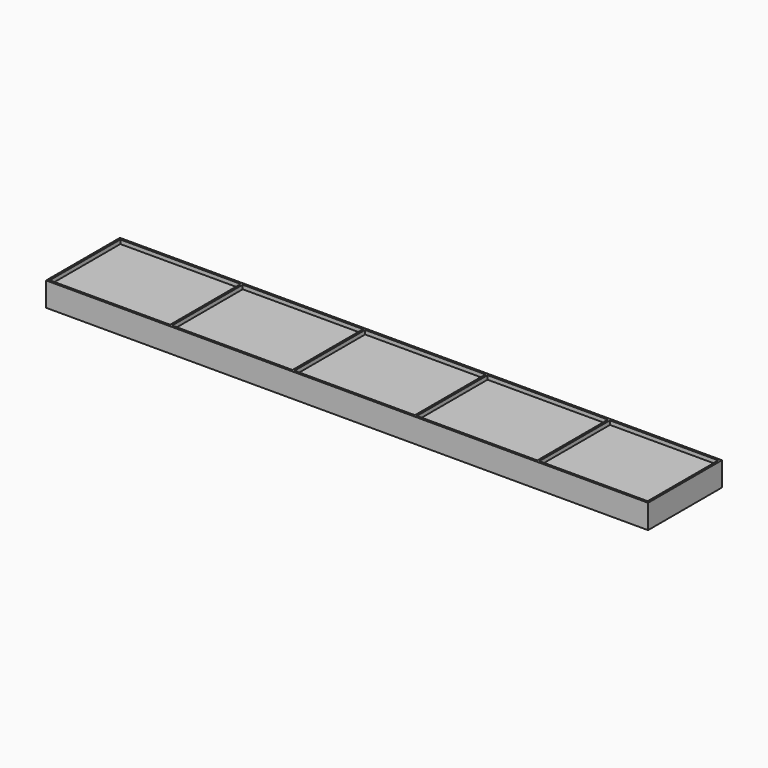
from build123d import *

# Parameters (mm, degrees)
BOX029_W          = 30
BOX029_H          = 22
BOX029_DEPTH      = 1.5
BOX030_W          = 27
BOX030_H          = 22
BOX030_DEPTH      = 1.5
BOX028_W          = 30
BOX028_H          = 22
BOX028_DEPTH      = 1.5
BOX027_W          = 30
BOX027_H          = 22
BOX027_DEPTH      = 1.5
BOX026_W          = 30
BOX026_H          = 22
BOX026_DEPTH      = 1.5
BOX025_W          = 150
BOX025_H          = 23
BOX025_DEPTH      = 1
CYLINDER006_R     = 3
CYLINDER006_DEPTH = 2.5
CYLINDER005_R     = 3
CYLINDER005_DEPTH = 2.5
CYLINDER007_R     = 3
CYLINDER007_DEPTH = 2.5
CYLINDER004_R     = 3
CYLINDER004_DEPTH = 2.5
BOX001_W          = 150
BOX001_H          = 23
BOX001_DEPTH      = 5


with BuildPart() as cube007:
    # Box029 → Box029 (new body)
    with BuildSketch(Plane(origin=(92, 0.5, 8), x_dir=(1, 0, 0), z_dir=(0, 0, 1))):
        with Locations((15, 11)):
            Rectangle(BOX029_W, BOX029_H)
    extrude(amount=BOX029_DEPTH)


with BuildPart() as cube008:
    # Box030 → Box030 (new body)
    with BuildSketch(Plane(origin=(122.5, 0.5, 8), x_dir=(1, 0, 0), z_dir=(0, 0, 1))):
        with Locations((13.5, 11)):
            Rectangle(BOX030_W, BOX030_H)
    extrude(amount=BOX030_DEPTH)


with BuildPart() as cube006:
    # Box028 → Box028 (new body)
    with BuildSketch(Plane(origin=(61.5, 0.5, 8), x_dir=(1, 0, 0), z_dir=(0, 0, 1))):
        with Locations((15, 11)):
            Rectangle(BOX028_W, BOX028_H)
    extrude(amount=BOX028_DEPTH)


with BuildPart() as cube005:
    # Box027 → Box027 (new body)
    with BuildSketch(Plane(origin=(31, 0.5, 8), x_dir=(1, 0, 0), z_dir=(0, 0, 1))):
        with Locations((15, 11)):
            Rectangle(BOX027_W, BOX027_H)
    extrude(amount=BOX027_DEPTH)


with BuildPart() as remove_holes:
    # Box026 → Box026 (new body)
    with BuildSketch(Plane(origin=(0.5, 0.5, 8), x_dir=(1, 0, 0), z_dir=(0, 0, 1))):
        with Locations((15, 11)):
            Rectangle(BOX026_W, BOX026_H)
    extrude(amount=BOX026_DEPTH)

    # Fusion027: union Cube007, Cube008, Cube006, Cube005
    add(cube007.part)
    add(cube008.part)
    add(cube006.part)
    add(cube005.part)


with BuildPart() as f_5x_loose:
    # Box025 → Box025 (new body)
    with BuildSketch(Plane.XY.offset(8)):
        with Locations((75, 11.5)):
            Rectangle(BOX025_W, BOX025_H)
    extrude(amount=BOX025_DEPTH)

    # Cut010: cut remove_holes
    add(remove_holes.part, mode=Mode.SUBTRACT)


with BuildPart() as cone002:
    # Cone002 → Cone002 (revolve)
    with BuildSketch(Plane(origin=(40, 11.5, 3), x_dir=(1, 0, 0), z_dir=(0, -1, 0))):
        Polygon((0, 0), (5.1, 0), (1.1, 4.1), (0, 4.1), align=None)
    revolve(axis=Axis((40, 11.5, 3), (0, 0, 1)))


with BuildPart() as cone003:
    # Cone003 → Cone003 (revolve)
    with BuildSketch(Plane(origin=(110, 11.5, 3), x_dir=(1, 0, 0), z_dir=(0, -1, 0))):
        Polygon((0, 0), (5.1, 0), (1.1, 4.1), (0, 4.1), align=None)
    revolve(axis=Axis((110, 11.5, 3), (0, 0, 1)))


with BuildPart() as cylinder006:
    # Cylinder006 → Cylinder006 (new body)
    with BuildSketch(Plane(origin=(24, 11.5, 3), x_dir=(1, 0, 0), z_dir=(0, 0, 1))):
        Circle(CYLINDER006_R)
    extrude(amount=CYLINDER006_DEPTH)


with BuildPart() as cylinder005:
    # Cylinder005 → Cylinder005 (new body)
    with BuildSketch(Plane(origin=(126, 11.5, 3), x_dir=(1, 0, 0), z_dir=(0, 0, 1))):
        Circle(CYLINDER005_R)
    extrude(amount=CYLINDER005_DEPTH)


with BuildPart() as cylinder007:
    # Cylinder007 → Cylinder007 (new body)
    with BuildSketch(Plane(origin=(134, 11.5, 3), x_dir=(1, 0, 0), z_dir=(0, 0, 1))):
        Circle(CYLINDER007_R)
    extrude(amount=CYLINDER007_DEPTH)


with BuildPart() as removals:
    # Cylinder004 → Cylinder004 (new body)
    with BuildSketch(Plane(origin=(16, 11.5, 3), x_dir=(1, 0, 0), z_dir=(0, 0, 1))):
        Circle(CYLINDER004_R)
    extrude(amount=CYLINDER004_DEPTH)

    # Fusion002: union Cone002, Cone003, Cylinder006, Cylinder005, Cylinder007
    add(cone002.part)
    add(cone003.part)
    add(cylinder006.part)
    add(cylinder005.part)
    add(cylinder007.part)


with BuildPart() as top_5x_loose:
    # Box001 → Box001 (new body)
    with BuildSketch(Plane.XY.offset(3)):
        with Locations((75, 11.5)):
            Rectangle(BOX001_W, BOX001_H)
    extrude(amount=BOX001_DEPTH)

    # Cut009: cut removals
    add(removals.part, mode=Mode.SUBTRACT)

    # Fusion028: union 5x_loose
    add(f_5x_loose.part)


solid = top_5x_loose.part
